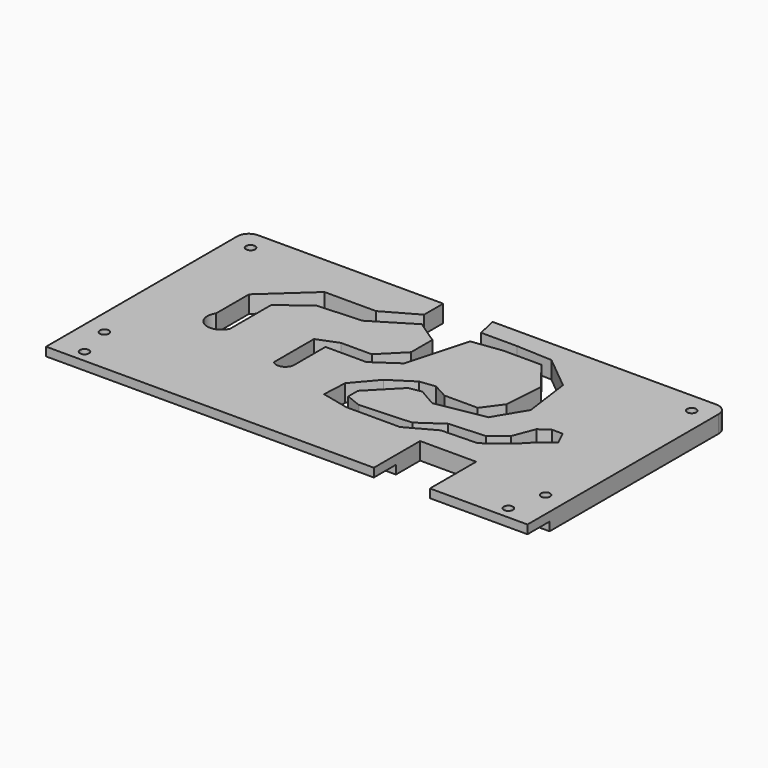
from build123d import *

# Parameters (mm, degrees)
PAD_DEPTH            = 83.675
SKETCH001_R          = 1.58
POCKET_DEPTH         = 377.510907
POCKET_DEPTH_BACK    = 383.510907
SKETCH002_R          = 1.58
POCKET001_DEPTH      = 377.510907
POCKET001_DEPTH_BACK = 383.510907
FILLET_R             = 4
POCKET002_DEPTH      = 0.001
POCKET002_DEPTH_BACK = 6.001
POCKET003_DEPTH      = 10.5


with BuildPart() as part:
    # Sketch → Pad (new body, symmetric)
    with BuildSketch(Plane.YZ):
        Polygon((0, 6), (77.5, 6), (77.5, 0), (0, 0), (0, 3), (-9.6, 3), (-9.6, 6), align=None)
    extrude(amount=PAD_DEPTH, both=True)

    # Sketch001 → Pocket (cut, two sides)
    with BuildSketch(Plane.XY) as pocket_sk:
        with Locations((-73.675, -5.4)):
            Circle(SKETCH001_R)
    pocket = extrude(amount=-POCKET_DEPTH, mode=Mode.SUBTRACT) + extrude(pocket_sk.sketch, amount=POCKET_DEPTH_BACK, mode=Mode.SUBTRACT)

    # Mirrored: Pocket across Sketch001 V_Axis
    add(pocket.mirror(Plane(origin=(0, 0, 0), x_dir=(0, 0, 1), z_dir=(1, 0, 0))), mode=Mode.SUBTRACT)

    # Sketch002 → Pocket001 (cut, two sides)
    with BuildSketch(Plane.XY) as pocket001_sk:
        with Locations((-76.675, 7)):
            Circle(SKETCH002_R)
        with Locations((-76.675, 70.5)):
            Circle(SKETCH002_R)
    pocket001 = extrude(amount=-POCKET001_DEPTH, mode=Mode.SUBTRACT) + extrude(pocket001_sk.sketch, amount=POCKET001_DEPTH_BACK, mode=Mode.SUBTRACT)

    # Mirrored001: Pocket001 across Sketch002 V_Axis
    add(pocket001.mirror(Plane(origin=(0, 0, 0), x_dir=(0, 0, 1), z_dir=(1, 0, 0))), mode=Mode.SUBTRACT)

    # Fillet
    fillet_edges = [part.edges().sort_by_distance(p)[0] for p in [
        (-83.675, 77.5, 3),
        (83.675, 77.5, 3),
    ]]
    fillet(fillet_edges, radius=FILLET_R)

    # Sketch003 → Pocket002 (cut, two sides)
    with BuildSketch(Plane.XY) as pocket002_sk:
        with BuildLine():
            Line((0, 85.498085), (-15.298519, 85.498085))
            Line((-15.298519, 85.498085), (-15.298519, 69.177368))
            Line((-15.298519, 69.177368), (-26.769978, 62.684086))
            Line((-26.769978, 62.684086), (-44.734715, 62.684086))
            Line((-44.734715, 62.684086), (-59.872273, 48.831764))
            Line((-59.872273, 48.831764), (-59.872273, 34.509105))
            ThreePointArc((-59.872273, 34.509105), (-58.127246, 27.428906), (-51.248122, 29.847994))
            Line((-51.248122, 29.847994), (-51.248122, 47.74955))
            Line((-51.248122, 47.74955), (-41.271629, 55.108601))
            Line((-41.271629, 55.108601), (-26.120649, 55.974365))
            Line((-26.120649, 55.974365), (-12.268326, 64.415634))
            Line((-12.268326, 64.415634), (-4.273829, 59.00457))
            Line((-4.273829, 59.00457), (-4.273829, 49.746376))
            Line((-4.273829, 49.746376), (-11.849321, 42.138565))
            Line((-11.849321, 42.138565), (-22.578484, 42.138565))
            Line((-22.578484, 42.138565), (-29.684225, 39.336304))
            Line((-29.684225, 39.336304), (-29.684225, 21.921904))
            ThreePointArc((-29.684225, 21.921904), (-26.450024, 21.191665), (-24.355623, 23.762032))
            Line((-24.355623, 23.762032), (-24.355623, 37.648584))
            Line((-24.355623, 37.648584), (-10.103902, 37.648584))
            Line((-10.103902, 37.648584), (-1.662641, 43.420704))
            Line((-1.662641, 43.420704), (4.266177, 64.735275))
            Line((4.266177, 64.735275), (14.620769, 66.093262))
            Line((14.620769, 66.093262), (27.998238, 66.093262))
            Line((27.998238, 66.093262), (36.006613, 55.757923))
            Line((36.006613, 55.757923), (35.051826, 42.016021))
            Line((35.051826, 42.016021), (30.290104, 35.52275))
            Line((30.290104, 35.52275), (18.682957, 35.52275))
            Line((18.682957, 35.52275), (13.581733, 38.294209))
            Line((13.581733, 38.294209), (8.170669, 37.644886))
            Line((8.170669, 37.644886), (0, 32.382126))
            Line((0, 32.382126), (-6.857254, 24.373747))
            Line((-6.857254, 24.373747), (-7.290145, 15.716045))
            Line((-7.290145, 15.716045), (2.203666, 13.517555))
            Line((2.203666, 13.517555), (20.817725, 13.517555))
            Line((20.817725, 13.517555), (30.746775, 18.903475))
            Line((30.746775, 18.903475), (43.285458, 19.26811))
            Line((43.285458, 19.26811), (51.726704, 25.761387))
            Line((51.726704, 25.761387), (55.560936, 29.718502))
            Line((60.111149, 33.261222), (55.560936, 29.718502))
            Line((57.811371, 38.052417), (60.111149, 33.261222))
            Line((54.002171, 38.084934), (57.811371, 38.052417))
            Line((50.578094, 35.659588), (54.002171, 38.084934))
            Line((47.703377, 28.185322), (50.578094, 35.659588))
            Line((42.337234, 23.969067), (47.703377, 28.185322))
            Line((29.880125, 23.202477), (42.337234, 23.969067))
            Line((21.830915, 17.64469), (29.880125, 23.202477))
            Line((4.007673, 16.686453), (21.830915, 17.64469))
            Line((-1.358464, 18.794577), (4.007673, 16.686453))
            Line((-1.358464, 23.01083), (-1.358464, 18.794577))
            Line((8.223927, 32.78487), (-1.358464, 23.01083))
            Line((12.631821, 33.55146), (8.223927, 32.78487))
            Line((18.9562, 29.910152), (12.631821, 33.55146))
            Line((36.012859, 32.976517), (18.9562, 29.910152))
            Line((42.337234, 43.517147), (36.012859, 32.976517))
            Line((40.037453, 60.382156), (42.337234, 43.517147))
            Line((28.346945, 69.964546), (40.037453, 60.382156))
            Line((15.889835, 70.53949), (28.346945, 69.964546))
            Line((3.432726, 70.53949), (15.889835, 70.53949))
            Line((0, 85.498085), (3.432726, 70.53949))
        make_face()
    extrude(amount=-POCKET002_DEPTH, mode=Mode.SUBTRACT)
    extrude(pocket002_sk.sketch, amount=POCKET002_DEPTH_BACK, mode=Mode.SUBTRACT)

    # Sketch004 → Pocket003 (cut, symmetric)
    with BuildSketch(Plane.XZ):
        Polygon((40.015, 0), (30.265, 0), (30.265, 8), (40.015, 8), (49.765, 8), (49.765, 0), align=None)
    extrude(amount=POCKET003_DEPTH, both=True, mode=Mode.SUBTRACT)


solid = part.part
